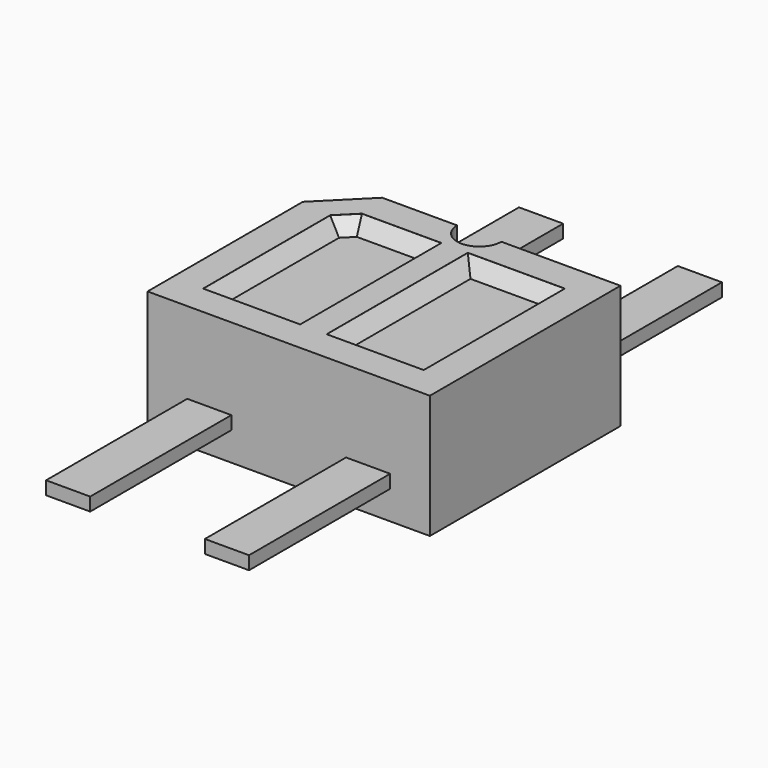
from build123d import *

# Parameters (mm, degrees)
PAD_DEPTH       = 1
PAD_DEPTH_BACK  = 0.4
SKETCH001_W     = 1.1
SKETCH001_H     = 2
POCKET_DEPTH    = 0.151
CHAMFER_SIZE    = 0.15
SKETCH003_R     = 0.25
POCKET001_DEPTH = 1.401
SKETCH002_W     = 0.5
SKETCH002_H     = 6.7
PAD001_DEPTH    = 0.075


with BuildPart() as pocket001:
    # Sketch → Pad (new body, two sides)
    with BuildSketch(Plane.XY) as pad_sk:
        Polygon((-1.1, 1.35), (1.6, 1.35), (1.6, -1.35), (-1.6, -1.35), (-1.6, 0.85), align=None)
    extrude(amount=PAD_DEPTH)
    extrude(pad_sk.sketch, amount=-PAD_DEPTH_BACK)

    # Sketch001 → Pocket (cut)
    with BuildSketch(Plane.XY.offset(1)):
        Polygon((-1.25, -1), (-0.15, -1), (-0.15, 1), (-1.05, 1), (-1.25, 0.8), align=None)
        with Locations((0.7, 0)):
            Rectangle(SKETCH001_W, SKETCH001_H)
    extrude(amount=-POCKET_DEPTH, mode=Mode.SUBTRACT)

    # Chamfer
    chamfer_edges = [pocket001.edges().sort_by_distance(p)[0] for p in [
        (-1.15, 0.9, 0.849),
        (-0.6, 1, 0.849),
        (-1.25, -0.1, 0.849),
        (0.15, 0, 0.849),
        (0.7, 1, 0.849),
        (1.25, 0, 0.849),
        (-0.15, 0, 0.849),
        (0.7, -1, 0.849),
        (-0.7, -1, 0.849),
    ]]
    chamfer(chamfer_edges, length=CHAMFER_SIZE)

    # Sketch003 → Pocket001 (cut, through all)
    with BuildSketch(Plane.XY.offset(1)):
        with Locations((0, 1.35)):
            Circle(SKETCH003_R)
    extrude(amount=-POCKET001_DEPTH, mode=Mode.SUBTRACT)


with BuildPart() as obj1:
    # Sketch002 → Pad001 (new body, symmetric)
    with BuildSketch(Plane.XY):
        with Locations((-0.9, 0)):
            Rectangle(SKETCH002_W, SKETCH002_H)
        with Locations((0.9, 0)):
            Rectangle(SKETCH002_W, SKETCH002_H)
    extrude(amount=PAD001_DEPTH, both=True)

    add(pocket001.part)


solid = obj1.part
